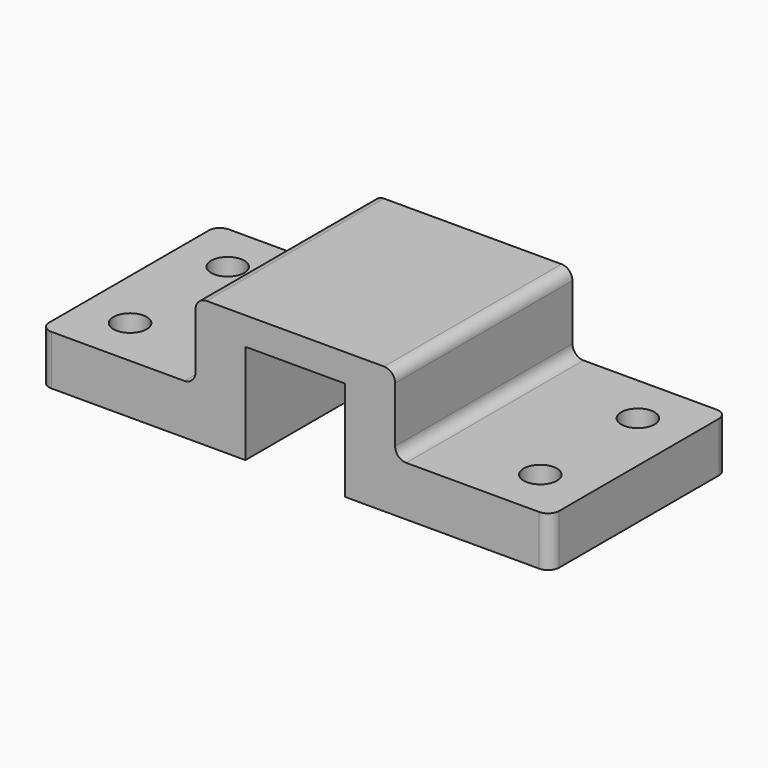
from build123d import *

# Parameters (mm, degrees)
F1_DEPTH = 1016
F2_R     = 50.8
F3_R     = 50.8
F4_R     = 76.2
F5_DEPTH = 2286


with BuildPart() as f1:
    # F0 (on Front) → F1 (new body)
    with BuildSketch(Plane.XZ):
        Polygon((-939.8, 0), (0, 0), (0, 228.6), (-711.2, 228.6), (-711.2, 584.2), (-1625.6, 584.2), (-1625.6, 228.6), (-2336.8, 228.6), (-2336.8, 0), (-1397, 0), (-1397, 228.6), (-1397, 457.2), (-939.8, 457.2), (-939.8, 228.6), align=None)
        Polygon((-939.8, 0), (0, 0), (0, 228.6), (-711.2, 228.6), (-711.2, 584.2), (-1625.6, 584.2), (-1625.6, 228.6), (-2336.8, 228.6), (-2336.8, 0), (-1397, 0), (-1397, 228.6), (-1397, 457.2), (-939.8, 457.2), (-939.8, 228.6), align=None)
    extrude(amount=F1_DEPTH)

    # F2
    f2_edges = [f1.edges().sort_by_distance(p)[0] for p in [
        (0, -1016, 114.3),
    ]]
    fillet(f2_edges, radius=F2_R)

    # F3
    f3_edges = [f1.edges().sort_by_distance(p)[0] for p in [
        (0, 0, 114.3),
        (-711.2, -508, 228.6),
        (-711.2, -508, 584.2),
        (-1625.6, -508, 584.2),
        (-1625.6, -508, 228.6),
        (-2336.8, 0, 114.3),
        (-2336.8, -1016, 114.3),
    ]]
    fillet(f3_edges, radius=F3_R)

    # F4 (on face) → F5 (cut)
    with BuildSketch(Plane.XY.offset(228.6)):
        with Locations((-228.6, -228.6)):
            Circle(F4_R)
        with Locations((-228.6, -787.4)):
            Circle(F4_R)
        with Locations((-2108.2, -787.4)):
            Circle(F4_R)
        with Locations((-2108.2, -228.6)):
            Circle(F4_R)
    extrude(amount=-F5_DEPTH, mode=Mode.SUBTRACT)


solid = f1.part
